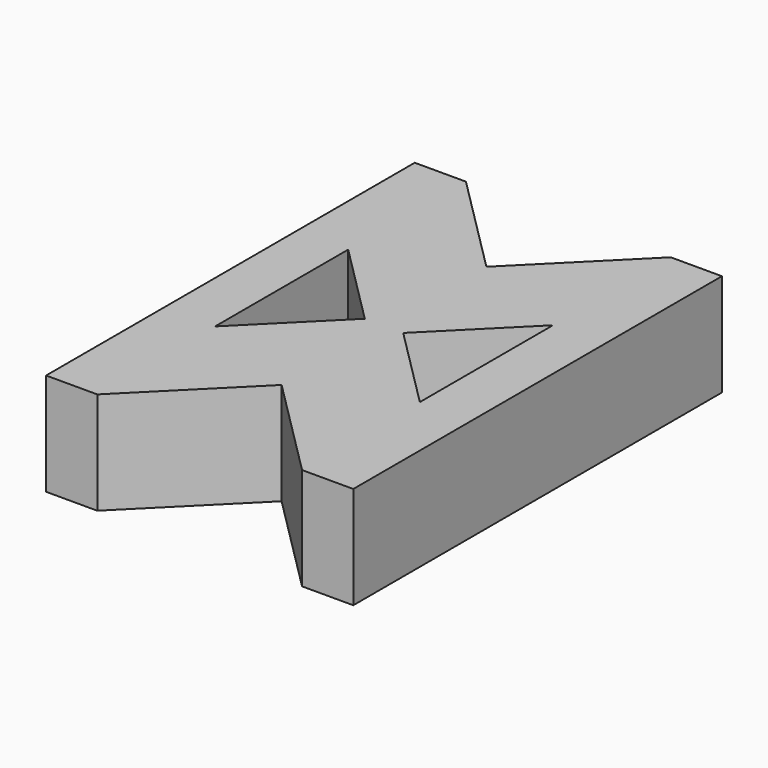
from build123d import *

# Parameters (mm, degrees)
F1_DEPTH = 8


with BuildPart() as f1:
    # F0 (on Top) → F1 (new body)
    with BuildSketch(Plane.XY):
        Polygon((4, 0), (0, 0), (0, -36), (4, -36), (12, -28), (20, -36), (24, -36), (24, 0), (20, 0), (12, -8), align=None)
        Polygon((4, -24.5), (4, -11.5), (10.5, -18), align=None, mode=Mode.SUBTRACT)
        Polygon((20, -24.5), (13.5, -18), (20, -11.5), align=None, mode=Mode.SUBTRACT)
    extrude(amount=F1_DEPTH)


solid = f1.part
